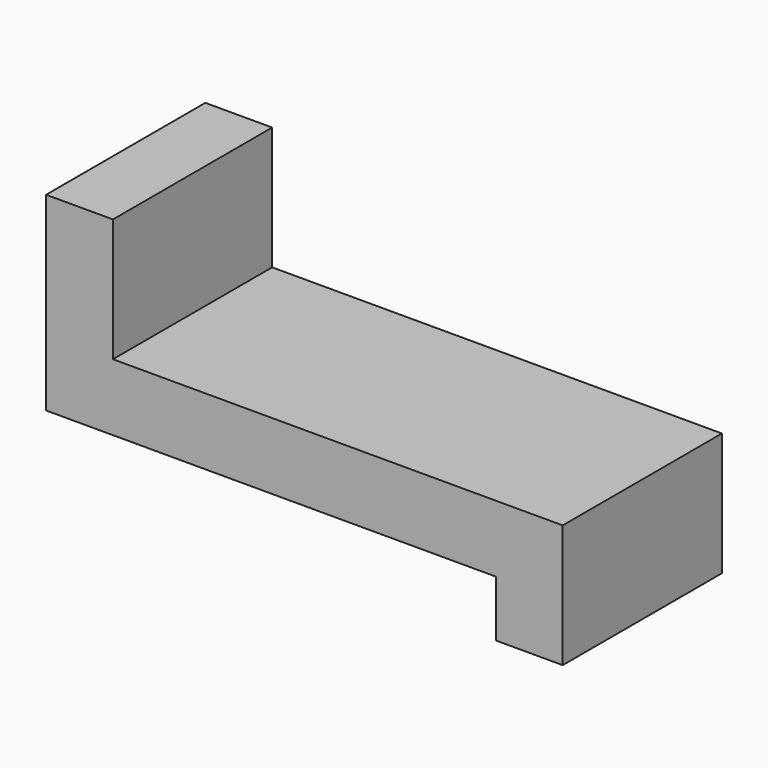
from build123d import *

# Parameters (mm, degrees)
F0_W     = 172.72
F0_H     = 66.548
F1_DEPTH = 22.352
F2_W     = 22.352
F2_H     = 66.548
F3_DEPTH = 41.148
F4_W     = 22.352
F4_H     = 66.548
F5_DEPTH = 18.796


with BuildPart() as f1:
    # F0 (on Top) → F1 (new body)
    with BuildSketch(Plane.XY):
        with Locations((1.07903, -21.693921)):
            Rectangle(F0_W, F0_H)
    extrude(amount=F1_DEPTH)

    # F2 (on face) → F3 (join)
    with BuildSketch(Plane.XY.offset(22.352)):
        with Locations((-74.10497, -21.693921)):
            Rectangle(F2_W, F2_H)
    extrude(amount=F3_DEPTH)

    # F4 (on face) → F5 (join)
    with BuildSketch(Plane(origin=(0, 0, 0), x_dir=(1, 0, 0), z_dir=(0, 0, -1))):
        with Locations((76.26303, 21.693921)):
            Rectangle(F4_W, F4_H)
    extrude(amount=F5_DEPTH)


solid = f1.part
